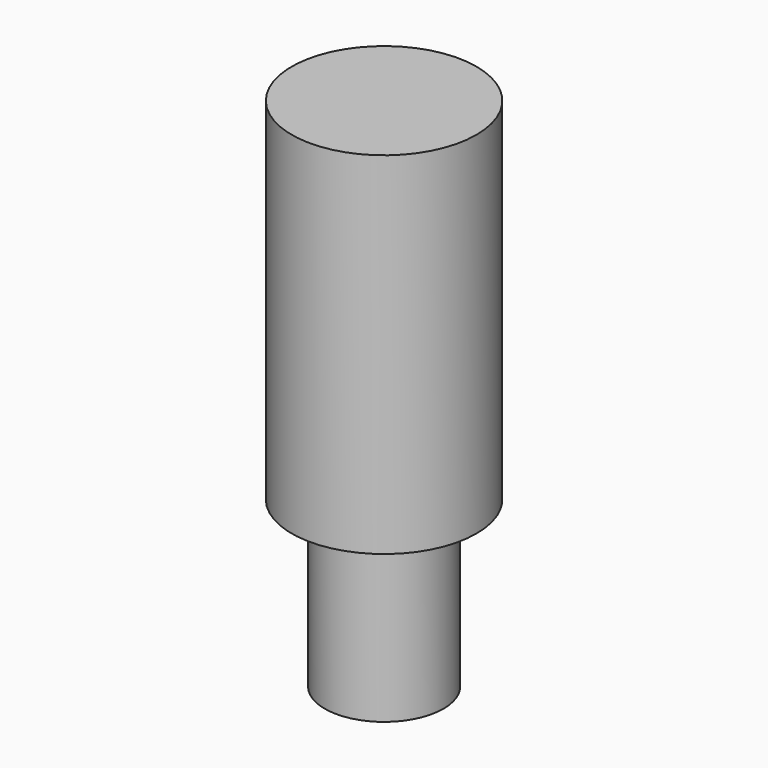
from build123d import *

# Parameters (mm, degrees)
F0_R     = 1.778
F1_DEPTH = 6.7564
F3_R     = 1.1684
F4_DEPTH = 3.175
F5_R     = 1.143
F6_DEPTH = 3.175


with BuildPart() as f1:
    # F0 (on Top) → F1 (new body)
    with BuildSketch(Plane.XY):
        Circle(F0_R)
    extrude(amount=F1_DEPTH)

    # F3 (on face) → F4 (cut)
    with BuildSketch(Plane.XY.offset(6.7564)):
        Circle(F3_R)
    extrude(amount=F4_DEPTH, mode=Mode.SUBTRACT)

    # F5 (on face) → F6 (join)
    with BuildSketch(Plane(origin=(0, 0, 0), x_dir=(1, 0, 0), z_dir=(0, 0, -1))):
        Circle(F5_R)
    extrude(amount=F6_DEPTH)


solid = f1.part
